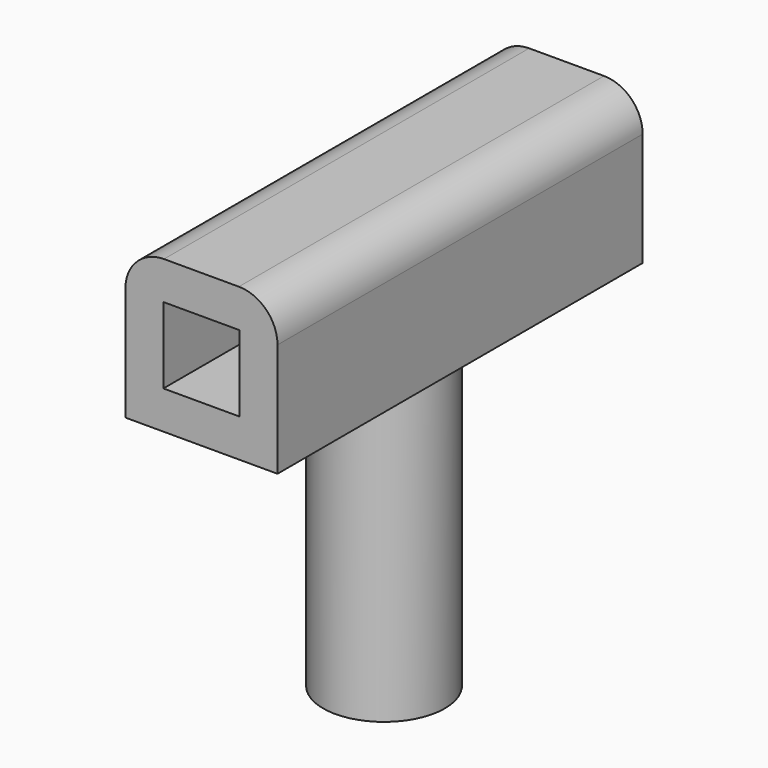
from build123d import *

# Parameters (mm, degrees)
F0_R     = 8
F1_DEPTH = 40
F2_W     = 20
F2_H     = 60
F3_DEPTH = 20
F4_R     = 5.08
F6_T     = -5


with BuildPart() as f1:
    # F0 (on Top) → F1 (new body)
    with BuildSketch(Plane.XY):
        Circle(F0_R)
    extrude(amount=-F1_DEPTH)

    # F2 (on Top) + F0 (on Top) → F3 (join)
    with BuildSketch(Plane.XY):
        Rectangle(F2_W, F2_H)
    with BuildSketch(Plane.XY):
        Circle(F0_R)
    extrude(amount=F3_DEPTH)

    # F4
    f4_edges = [f1.edges().sort_by_distance(p)[0] for p in [
        (-10, 0, 20),
        (10, 0, 20),
    ]]
    fillet(f4_edges, radius=F4_R)

    # F6
    f6_openings = [f1.faces().sort_by_distance(p)[0] for p in [
        (0, -30, 9.747524),
        (0, 30, 9.747524),
    ]]
    offset(amount=F6_T, openings=f6_openings, kind=Kind.INTERSECTION)


solid = f1.part
